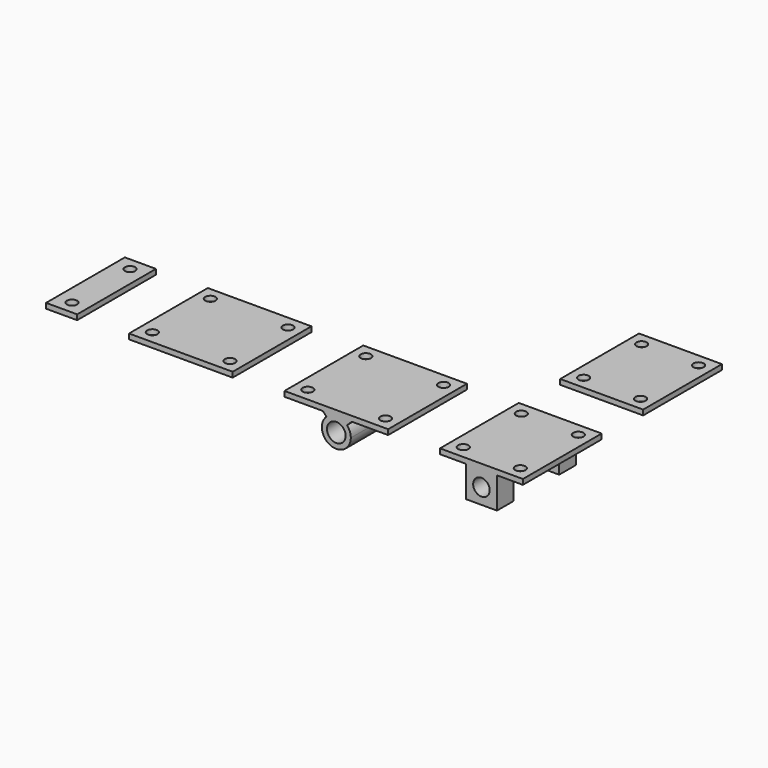
from build123d import *

# Parameters (mm, degrees)
F0_R     = 5
F0_W     = 30
F0_H     = 95
F0_W_2   = 80
F1_DEPTH = 5
F2_R     = 9
F3_DEPTH = 47.5
F2_W     = 30
F2_H     = 30
F2_R_2   = 8
F4_DEPTH = 47.5
F5_DEPTH = 27.5


with BuildPart() as f1:
    # F0 (on Top) → F1 (new body)
    with BuildSketch(Plane.XY):
        Polygon((0, 47.5), (0, 0), (0, -47.5), (100, -47.5), (100, 47.5), align=None)
        with Locations((12.5, -35)):
            Circle(F0_R, mode=Mode.SUBTRACT)
        with Locations((87.5, -35)):
            Circle(F0_R, mode=Mode.SUBTRACT)
        with Locations((12.5, 35)):
            Circle(F0_R, mode=Mode.SUBTRACT)
        with Locations((87.5, 35)):
            Circle(F0_R, mode=Mode.SUBTRACT)
        with Locations((-65, 0)):
            Rectangle(F0_W, F0_H)
        with Locations((-65, -35)):
            Circle(F0_R, mode=Mode.SUBTRACT)
        with Locations((-65, 35)):
            Circle(F0_R, mode=Mode.SUBTRACT)
        Polygon((150, 47.5), (150, -47.5), (250, -47.5), (250, 0), (250, 47.5), align=None)
        with Locations((162.5, -35)):
            Circle(F0_R, mode=Mode.SUBTRACT)
        with Locations((237.5, -35)):
            Circle(F0_R, mode=Mode.SUBTRACT)
        with Locations((162.5, 35)):
            Circle(F0_R, mode=Mode.SUBTRACT)
        with Locations((237.5, 35)):
            Circle(F0_R, mode=Mode.SUBTRACT)
        with Locations((340, 0)):
            Rectangle(F0_W_2, F0_H)
        with Locations((312.5, -35)):
            Circle(F0_R, mode=Mode.SUBTRACT)
        with Locations((367.5, -35)):
            Circle(F0_R, mode=Mode.SUBTRACT)
        with Locations((312.5, 35)):
            Circle(F0_R, mode=Mode.SUBTRACT)
        with Locations((367.5, 35)):
            Circle(F0_R, mode=Mode.SUBTRACT)
        with Locations((340, 145)):
            Rectangle(F0_W_2, F0_H)
        with Locations((312.5, 110)):
            Circle(F0_R, mode=Mode.SUBTRACT)
        with Locations((367.5, 110)):
            Circle(F0_R, mode=Mode.SUBTRACT)
        with Locations((312.5, 180)):
            Circle(F0_R, mode=Mode.SUBTRACT)
        with Locations((367.5, 180)):
            Circle(F0_R, mode=Mode.SUBTRACT)
    extrude(amount=F1_DEPTH)

    # F2 (on Front) → F3 (join, symmetric)
    with BuildSketch(Plane.XZ):
        with BuildLine():
            ThreePointArc((190.473685, -3.740891), (194.882751, -0.968739), (200, 0))
            Line((200, 0), (187, 0))
            Line((187, 0), (190.473685, -3.740891))
        make_face()
        with BuildLine():
            Line((210.259109, -4.473685), (215.076923, 0))
            Line((215.076923, 0), (200, 0))
            ThreePointArc((200, 0), (205.596051, -1.167066), (210.259109, -4.473685))
        make_face()
        with BuildLine():
            ThreePointArc((210.259109, -4.473685), (205.596051, -1.167066), (200, 0))
            ThreePointArc((200, 0), (194.882751, -0.968739), (190.473685, -3.740891))
            ThreePointArc((190.473685, -3.740891), (194.403949, -26.832934), (214, -14))
            ThreePointArc((214, -14), (213.031261, -8.882751), (210.259109, -4.473685))
        make_face()
        with Locations((200, -14)):
            Circle(F2_R, mode=Mode.SUBTRACT)
    extrude(amount=F3_DEPTH, both=True)

    # F2 (on Front) → F4 (join, symmetric)
    with BuildSketch(Plane.XZ):
        with Locations((340, -15)):
            Rectangle(F2_W, F2_H)
        with Locations((340, -15)):
            Circle(F2_R_2, mode=Mode.SUBTRACT)
    extrude(amount=F4_DEPTH, both=True)

    # F2 (on Front) → F5 (cut, symmetric)
    with BuildSketch(Plane.XZ):
        with Locations((340, -15)):
            Rectangle(F2_W, F2_H)
        with Locations((340, -15)):
            Circle(F2_R_2, mode=Mode.SUBTRACT)
    extrude(amount=F5_DEPTH, both=True, mode=Mode.SUBTRACT)


solid = f1.part
